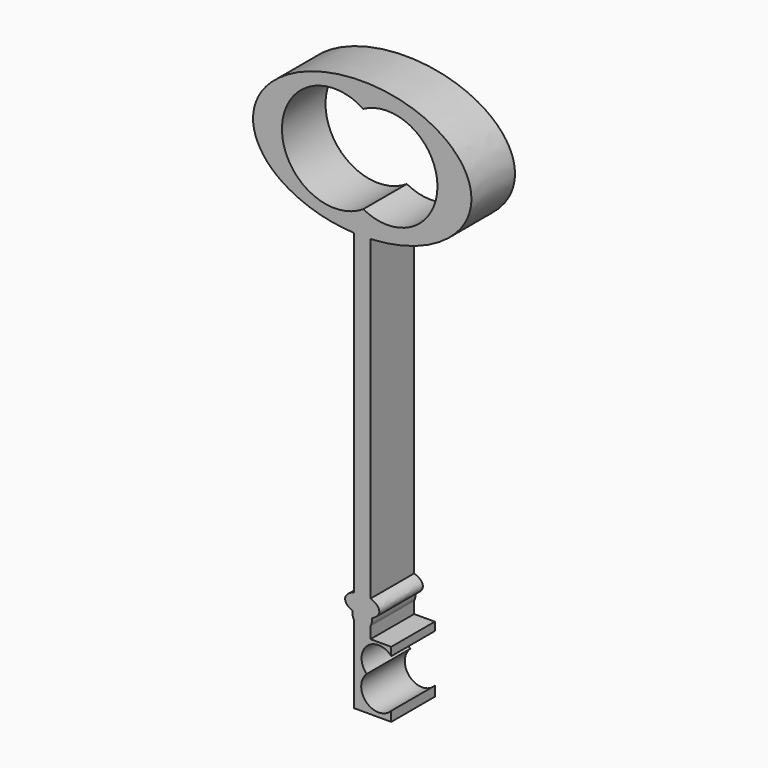
from build123d import *

# Parameters (mm, degrees)
F1_DEPTH = 12.7


with BuildPart() as f1:
    # F0 (on Front) → F1 (new body)
    with BuildSketch(Plane.XZ):
        with BuildLine():
            add(Edge.make_bspline(
                [(-1.9073785423, 20.052475111), (0.017576206, 19.9620063062), (1.9423299236, 20.0541328887)],
                knots=[1.4957896525, 1.4957896525, 1.4957896525, 1.6471801011, 1.6471801011, 1.6471801011], degree=2, weights=[1, 0.9971364842, 1]))
            Line((-1.9073785423, 20.052475111), (-1.9073785423, -53.7418810242))
            add(Edge.make_bspline(
                [(1.9423299236, -53.7529678102), (0.0228057891, -53.1368492071), (-1.9073785423, -53.7418810242)],
                knots=[1.0611989823, 1.0611989823, 1.0611989823, 2.070365695, 2.070365695, 2.070365695], degree=2, weights=[1, 0.8753759737, 1]))
            Line((1.9423299236, -53.7529678102), (1.9423299236, 20.0541328887))
        make_face()
        with BuildLine():
            add(Edge.make_bspline(
                [(3.9816056378, -55.7493055508), (3.9816056378, -54.4075236356), (1.9423299236, -53.7529678102)],
                knots=[0, 0, 0, 1.0611989823, 1.0611989823, 1.0611989823], degree=2, weights=[1, 0.8625038527, 1]))
            Line((1.9423299236, -53.7529678102), (1.9423299236, -55.7493055508))
            Line((1.9423299236, -55.7493055508), (1.9423299236, -56.6977486097))
            add(Edge.make_bspline(
                [(2.2462188767, -57.6375455968), (2.1764768556, -57.1335548751), (1.9423299236, -56.6977486097)],
                knots=[1.7262491686, 1.7262491686, 1.7262491686, 2.1174212155, 2.1174212155, 2.1174212155], degree=2, weights=[1, 0.9809339494, 1]))
            add(Edge.make_bspline(
                [(2.2462188767, -57.6375455968), (3.9816056378, -56.9565051427), (3.9816056378, -55.7493055508)],
                knots=[5.3117912077, 5.3117912077, 5.3117912077, 6.2831853072, 6.2831853072, 6.2831853072], degree=2, weights=[1, 0.8843497638, 1]))
        make_face()
        with BuildLine():
            add(Edge.make_bspline(
                [(1.9423299236, -53.7529678102), (0.0228057891, -53.1368492071), (-1.9073785423, -53.7418810242)],
                knots=[1.0611989823, 1.0611989823, 1.0611989823, 2.070365695, 2.070365695, 2.070365695], degree=2, weights=[1, 0.8753759737, 1]))
            Line((-1.9073785423, -53.7418810242), (-1.9073785423, -55.7493055508))
            Line((-1.9073785423, -55.7493055508), (-1.044883562, -55.7493055508))
            add(Edge.make_bspline(
                [(1.044883562, -55.7493055508), (0, -55.1369884315), (-1.044883562, -55.7493055508)],
                knots=[2.6640871641, 2.6640871641, 2.6640871641, 3.619098143, 3.619098143, 3.619098143], degree=2, weights=[1, 0.8881440749, 1]))
            Line((1.044883562, -55.7493055508), (1.9423299236, -55.7493055508))
            Line((1.9423299236, -55.7493055508), (1.9423299236, -53.7529678102))
        make_face()
        with BuildLine():
            Line((-1.9073785423, -55.7493055508), (-1.9073785423, -53.7418810242))
            add(Edge.make_bspline(
                [(-1.9073785423, -53.7418810242), (-7.6144672063, -55.5308139091), (-2.2462188767, -57.6375455968)],
                knots=[2.070365695, 2.070365695, 2.070365695, 4.112986753, 4.112986753, 4.112986753], degree=2, weights=[1, 0.5222487899, 1]))
            add(Edge.make_bspline(
                [(-1.9073785423, -56.634762618), (-2.1711764943, -57.0952518141), (-2.2462188767, -57.6375455968)],
                knots=[4.136872528, 4.136872528, 4.136872528, 4.5569361386, 4.5569361386, 4.5569361386], degree=2, weights=[1, 0.9780242841, 1]))
            Line((-1.9073785423, -56.634762618), (-1.9073785423, -55.7493055508))
        make_face()
        with BuildLine():
            Line((-1.044883562, -55.7493055508), (-1.9073785423, -55.7493055508))
            Line((-1.9073785423, -55.7493055508), (-1.9073785423, -56.634762618))
            add(Edge.make_bspline(
                [(-1.044883562, -55.7493055508), (-1.5796596611, -56.062692202), (-1.9073785423, -56.634762618)],
                knots=[3.619098143, 3.619098143, 3.619098143, 4.136872528, 4.136872528, 4.136872528], degree=2, weights=[1, 0.9666754609, 1]))
        make_face()
        with BuildLine():
            add(Edge.make_bspline(
                [(1.044883562, -55.7493055508), (0, -55.1369884315), (-1.044883562, -55.7493055508)],
                knots=[2.6640871641, 2.6640871641, 2.6640871641, 3.619098143, 3.619098143, 3.619098143], degree=2, weights=[1, 0.8881440749, 1]))
            Line((-1.044883562, -55.7493055508), (1.044883562, -55.7493055508))
        make_face()
        with BuildLine():
            Line((1.9423299236, -56.6977486097), (1.9423299236, -55.7493055508))
            Line((1.9423299236, -55.7493055508), (1.044883562, -55.7493055508))
            add(Edge.make_bspline(
                [(1.9423299236, -56.6977486097), (1.6109982118, -56.0810570531), (1.044883562, -55.7493055508)],
                knots=[2.1174212155, 2.1174212155, 2.1174212155, 2.6640871641, 2.6640871641, 2.6640871641], degree=2, weights=[1, 0.9628765359, 1]))
        make_face()
        with BuildLine():
            add(Edge.make_bspline(
                [(-1.9073785423, -56.634762618), (-2.1711764943, -57.0952518141), (-2.2462188767, -57.6375455968)],
                knots=[4.136872528, 4.136872528, 4.136872528, 4.5569361386, 4.5569361386, 4.5569361386], degree=2, weights=[1, 0.9780242841, 1]))
            add(Edge.make_bspline(
                [(-2.2462188767, -57.6375455968), (-2.0819819727, -57.7019992265), (-1.9073785423, -57.7567300774)],
                knots=[4.112986753, 4.112986753, 4.112986753, 4.2128196121, 4.2128196121, 4.2128196121], degree=2, weights=[1, 0.9987544337, 1]))
            Line((-1.9073785423, -57.7567300774), (-1.9073785423, -56.634762618))
        make_face()
        with BuildLine():
            add(Edge.make_bspline(
                [(-1.9073785423, -57.7567300774), (0.0228057891, -58.3617618944), (1.9423299236, -57.7456432913)],
                knots=[4.2128196121, 4.2128196121, 4.2128196121, 5.2219863249, 5.2219863249, 5.2219863249], degree=2, weights=[1, 0.8753759737, 1]))
            Line((-1.9073785423, -57.7567300774), (-1.9073785423, -59.4376690078))
            add(Edge.make_bspline(
                [(-1.9073785423, -59.4376690078), (-1.2351343114, -60.6111474335), (0, -60.6111474335)],
                knots=[5.2879054328, 5.2879054328, 5.2879054328, 6.2831853072, 6.2831853072, 6.2831853072], degree=2, weights=[1, 0.8787115912, 1]))
            add(Edge.make_bspline(
                [(0, -60.6111474335), (1.2780109984, -60.6111474335), (1.9423299236, -59.3746830161)],
                knots=[0, 0, 0, 1.0241714381, 1.0241714381, 1.0241714381], degree=2, weights=[1, 0.8717244095, 1]))
            Line((1.9423299236, -59.3746830161), (1.9423299236, -57.7456432913))
        make_face()
        with BuildLine():
            add(Edge.make_bspline(
                [(2.2462188767, -57.6375455968), (2.1764768556, -57.1335548751), (1.9423299236, -56.6977486097)],
                knots=[1.7262491686, 1.7262491686, 1.7262491686, 2.1174212155, 2.1174212155, 2.1174212155], degree=2, weights=[1, 0.9809339494, 1]))
            Line((1.9423299236, -56.6977486097), (1.9423299236, -57.7456432913))
            add(Edge.make_bspline(
                [(1.9423299236, -57.7456432913), (2.0985026197, -57.6955158136), (2.2462188767, -57.6375455968)],
                knots=[5.2219863249, 5.2219863249, 5.2219863249, 5.3117912077, 5.3117912077, 5.3117912077], degree=2, weights=[1, 0.9989920547, 1]))
        make_face()
        with BuildLine():
            Line((1.044883562, -55.7493055508), (-1.044883562, -55.7493055508))
            add(Edge.make_bspline(
                [(-1.044883562, -55.7493055508), (-1.5796596611, -56.062692202), (-1.9073785423, -56.634762618)],
                knots=[3.619098143, 3.619098143, 3.619098143, 4.136872528, 4.136872528, 4.136872528], degree=2, weights=[1, 0.9666754609, 1]))
            Line((-1.9073785423, -56.634762618), (-1.9073785423, -57.7567300774))
            add(Edge.make_bspline(
                [(-1.9073785423, -57.7567300774), (0.0228057891, -58.3617618944), (1.9423299236, -57.7456432913)],
                knots=[4.2128196121, 4.2128196121, 4.2128196121, 5.2219863249, 5.2219863249, 5.2219863249], degree=2, weights=[1, 0.8753759737, 1]))
            Line((1.9423299236, -57.7456432913), (1.9423299236, -56.6977486097))
            add(Edge.make_bspline(
                [(1.9423299236, -56.6977486097), (1.6109982118, -56.0810570531), (1.044883562, -55.7493055508)],
                knots=[2.1174212155, 2.1174212155, 2.1174212155, 2.6640871641, 2.6640871641, 2.6640871641], degree=2, weights=[1, 0.9628765359, 1]))
        make_face()
        with BuildLine():
            add(Edge.make_bspline(
                [(1.9423299236, -59.3746830161), (2.3751312656, -58.5691309856), (2.2462188767, -57.6375455968)],
                knots=[1.0241714381, 1.0241714381, 1.0241714381, 1.7262491686, 1.7262491686, 1.7262491686], degree=2, weights=[1, 0.9390159814, 1]))
            add(Edge.make_bspline(
                [(1.9423299236, -57.7456432913), (2.0985026197, -57.6955158136), (2.2462188767, -57.6375455968)],
                knots=[5.2219863249, 5.2219863249, 5.2219863249, 5.3117912077, 5.3117912077, 5.3117912077], degree=2, weights=[1, 0.9989920547, 1]))
            Line((1.9423299236, -57.7456432913), (1.9423299236, -59.3746830161))
        make_face()
        with BuildLine():
            add(Edge.make_bspline(
                [(-2.2462188767, -57.6375455968), (-2.0819819727, -57.7019992265), (-1.9073785423, -57.7567300774)],
                knots=[4.112986753, 4.112986753, 4.112986753, 4.2128196121, 4.2128196121, 4.2128196121], degree=2, weights=[1, 0.9987544337, 1]))
            add(Edge.make_bspline(
                [(-2.2462188767, -57.6375455968), (-2.3809295292, -58.6110321383), (-1.9073785423, -59.4376690078)],
                knots=[4.5569361386, 4.5569361386, 4.5569361386, 5.2879054328, 5.2879054328, 5.2879054328], degree=2, weights=[1, 0.933950657, 1]))
            Line((-1.9073785423, -59.4376690078), (-1.9073785423, -57.7567300774))
        make_face()
        with BuildLine():
            add(Edge.make_bspline(
                [(-1.9073785423, -59.4376690078), (-1.2351343114, -60.6111474335), (0, -60.6111474335)],
                knots=[5.2879054328, 5.2879054328, 5.2879054328, 6.2831853072, 6.2831853072, 6.2831853072], degree=2, weights=[1, 0.8787115912, 1]))
            Line((-1.9073785423, -59.4376690078), (-1.9073785423, -62.1413066983))
            Line((-1.9073785423, -62.1413066983), (-1.9073785423, -77.5011405349))
            Line((-1.9073785423, -77.5011405349), (6.764688681, -77.5011405349))
            Line((6.764688681, -77.5011405349), (6.764688681, -75.2278044498))
            ThreePointArc((6.764688681, -75.2278044498), (0.9449620064, -75.3246917108), (1.0548615824, -69.5051962179))
            ThreePointArc((1.0548615824, -69.5051962179), (1.0605464602, -63.7969315626), (6.764688681, -64.0139090212))
            Line((6.764688681, -64.0139090212), (6.764688681, -62.1413066983))
            Line((6.764688681, -62.1413066983), (6.764688681, -62.0838291943))
            Line((6.764688681, -62.0838291943), (1.9423299236, -62.0838291943))
            Line((1.9423299236, -62.0838291943), (1.9423299236, -59.3746830161))
            add(Edge.make_bspline(
                [(0, -60.6111474335), (1.2780109984, -60.6111474335), (1.9423299236, -59.3746830161)],
                knots=[0, 0, 0, 1.0241714381, 1.0241714381, 1.0241714381], degree=2, weights=[1, 0.8717244095, 1]))
        make_face()
        with BuildLine():
            add(Edge.make_bspline(
                [(1.9423299236, 20.0541328887), (60.0490421717, 22.8353577125), (17.2978656194, 47.6041947023), (-25.453310933, 72.3730316922), (-25.453310933, 35.9264016151)],
                knots=[1.6471801011, 1.6471801011, 1.6471801011, 3.9651827041, 3.9651827041, 6.2831853072, 6.2831853072, 6.2831853072], degree=2, weights=[1, 0.40025494, 1, 0.40025494, 1]))
            add(Edge.make_bspline(
                [(-25.453310933, 35.9264016151), (-25.453310933, 21.1590841686), (-1.9073785423, 20.052475111)],
                knots=[0, 0, 0, 1.4957896525, 1.4957896525, 1.4957896525], degree=2, weights=[1, 0.7331222145, 1]))
            add(Edge.make_bspline(
                [(-1.9073785423, 20.052475111), (0.017576206, 19.9620063062), (1.9423299236, 20.0541328887)],
                knots=[1.4957896525, 1.4957896525, 1.4957896525, 1.6471801011, 1.6471801011, 1.6471801011], degree=2, weights=[1, 0.9971364842, 1]))
        make_face()
        with BuildLine():
            ThreePointArc((0.2462605992, 25.6347158415), (-18.7190316515, 35.9264016151), (0.2462605992, 46.2180873888))
            ThreePointArc((0.2462605992, 46.2180873888), (11.8192154628, 45.9888335268), (17.5405182544, 35.9264016151))
            ThreePointArc((17.5405182544, 35.9264016151), (11.8192154628, 25.8639697035), (0.2462605992, 25.6347158415))
        make_face(mode=Mode.SUBTRACT)
    extrude(amount=F1_DEPTH)


solid = f1.part
